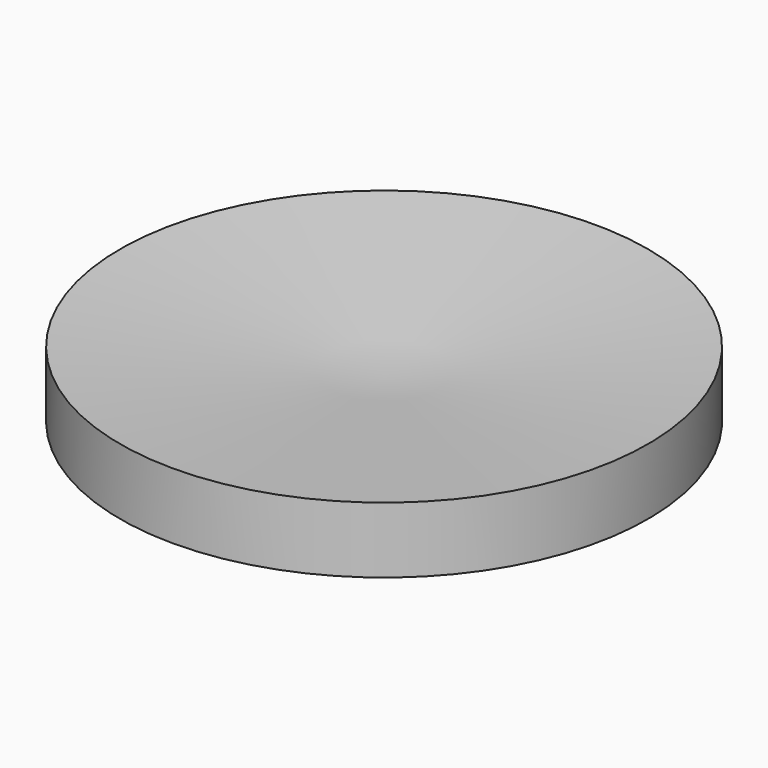
from build123d import *


with BuildPart() as f1:
    # F0 (on Right) → F1 (revolve)
    with BuildSketch(Plane.YZ):
        Polygon((-25.4, 0), (0, 0), (0, 3.81), (-25.4, 6.35), align=None)
    revolve(axis=Axis((0, 0, 1.905), (0, 0, -1)))


solid = f1.part
